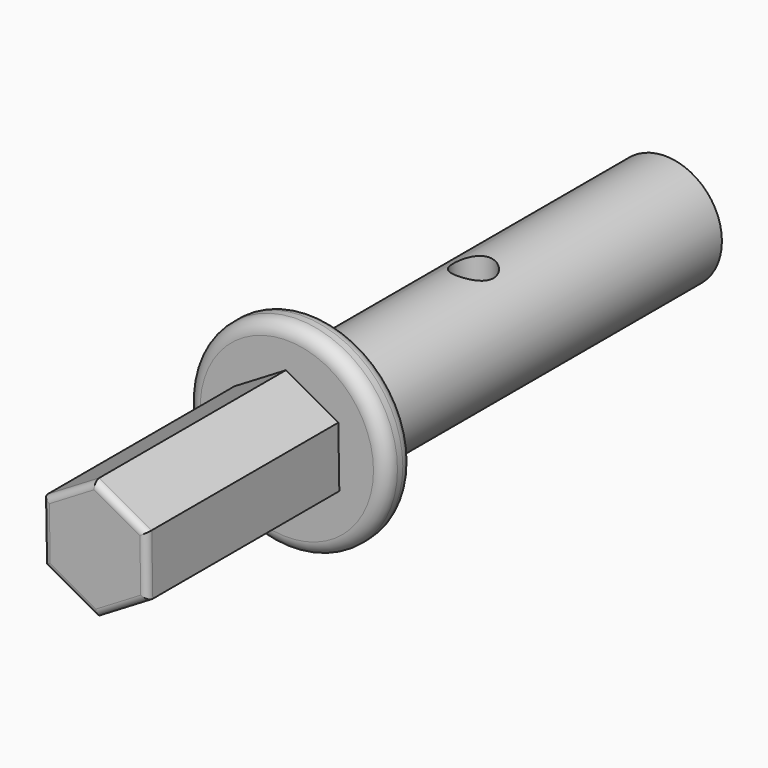
from build123d import *

# Parameters (mm, degrees)
F0_R      = 4.25
F1_DEPTH  = 33
F2_DEPTH  = 6
F3_R      = 7.5
F3_R_2    = 4.25
F4_DEPTH  = 2.5
F6_DEPTH  = 18
F7_R      = 0.5
F8_R      = 1
F10_R     = 1.5
F11_DEPTH = 40


with BuildPart() as f1:
    # F0 (on Front) → F1 (new body)
    with BuildSketch(Plane.XZ):
        Circle(F0_R)
        Polygon((-1.375, 2.38157), (2.75, 0), (-1.375, -2.38157), align=None, mode=Mode.SUBTRACT)
        Polygon((-1.375, -2.38157), (2.75, 0), (-1.375, 2.38157), align=None)
    extrude(amount=F1_DEPTH)

    # F0 (on Front) → F2 (cut)
    with BuildSketch(Plane.XZ):
        Polygon((-1.375, -2.38157), (2.75, 0), (-1.375, 2.38157), align=None)
    extrude(amount=F2_DEPTH, mode=Mode.SUBTRACT)

    # F3 (on face) → F4 (join)
    with BuildSketch(Plane.XZ.offset(33)):
        Circle(F3_R)
        Circle(F3_R_2, mode=Mode.SUBTRACT)
        Circle(F3_R_2)
    extrude(amount=F4_DEPTH)

    # F5 (on face) → F6 (join)
    with BuildSketch(Plane.XZ.offset(35.5)):
        Polygon((0.076423, -4.499351), (3.934764, -2.183492), (3.858341, 2.315859), (-0.076423, 4.499351), (-3.934764, 2.183492), (-3.858341, -2.315859), align=None)
    extrude(amount=F6_DEPTH)

    # F7
    f7_edges = [f1.edges().sort_by_distance(p)[0] for p in [
        (2.005593, -53.5, -3.341421),
        (-1.890959, -53.5, -3.407605),
        (-3.896552, -53.5, -0.066184),
        (-2.005593, -53.5, 3.341421),
        (1.890959, -53.5, 3.407605),
        (3.896552, -53.5, 0.066184),
    ]]
    fillet(f7_edges, radius=F7_R)

    # F8
    f8_edges = [f1.edges().sort_by_distance(p)[0] for p in [
        (-7.5, -35.5, 0),
        (-7.5, -33, 0),
    ]]
    fillet(f8_edges, radius=F8_R)

    # F10 (on offset) → F11 (cut)
    with BuildSketch(Plane.XY.offset(25)):
        with Locations((0, -18)):
            Circle(F10_R)
    extrude(amount=-F11_DEPTH, mode=Mode.SUBTRACT)


solid = f1.part
